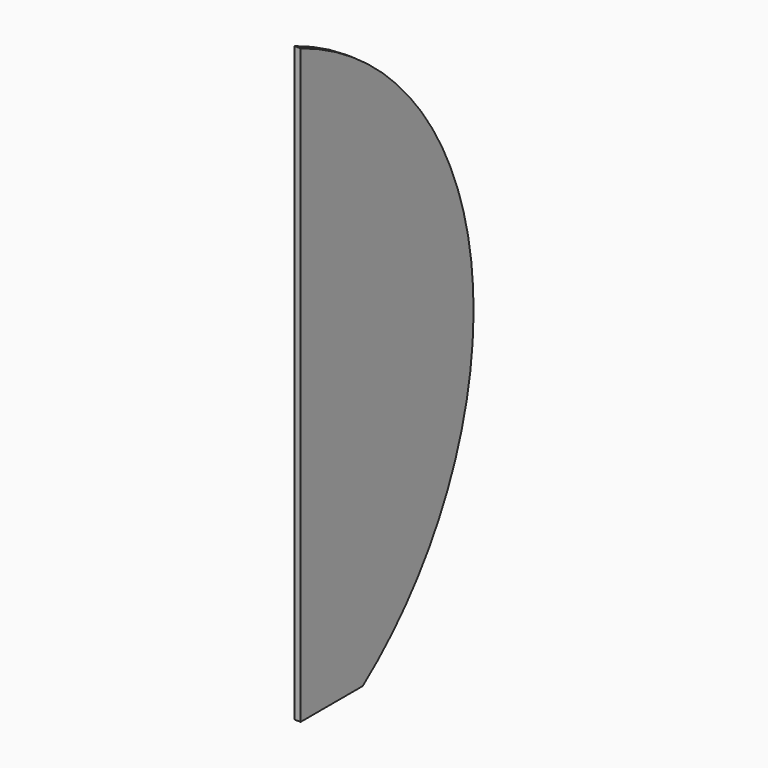
from build123d import *

# Parameters (mm, degrees)
F1_DEPTH = 1


with BuildPart() as f1:
    # F0 (on Right) → F1 (new body)
    with BuildSketch(Plane.YZ):
        with BuildLine():
            Line((0, 95.703833), (0, 0))
            Line((0, 0), (12.519237, 0))
            ThreePointArc((12.519237, 0), (34.413543, 51.534795), (0, 95.703833))
        make_face()
    extrude(amount=F1_DEPTH)


solid = f1.part
